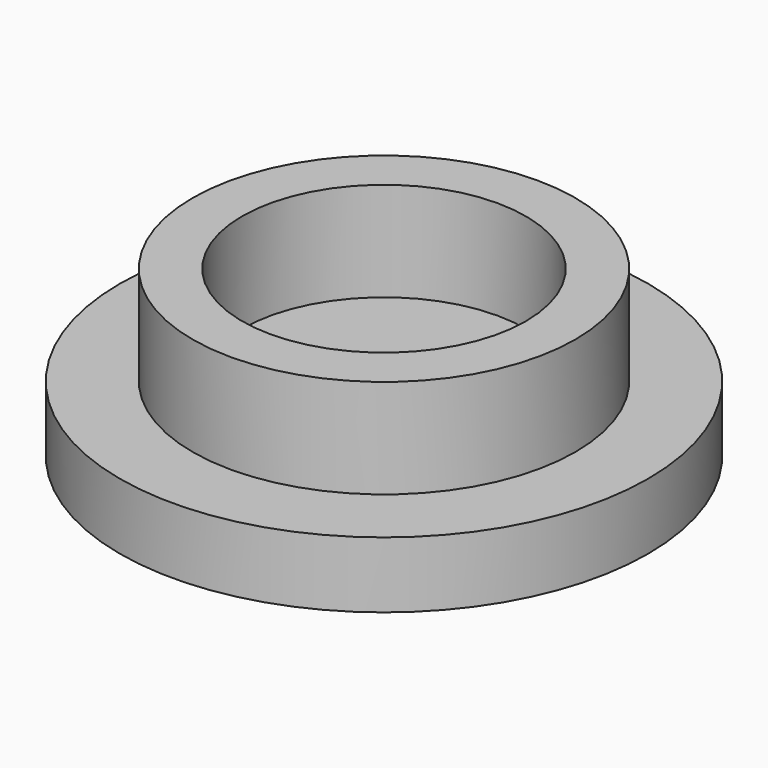
from build123d import *

# Parameters (mm, degrees)
F0_R     = 5.8
F0_R_2   = 4.3
F1_DEPTH = 3
F0_R_3   = 8
F2_DEPTH = 2


with BuildPart() as f1:
    # F0 (on Top) → F1 (new body)
    with BuildSketch(Plane.XY):
        Circle(F0_R)
        Circle(F0_R_2, mode=Mode.SUBTRACT)
    extrude(amount=F1_DEPTH)

    # F0 (on Top) → F2 (join)
    with BuildSketch(Plane.XY):
        Circle(F0_R_3)
        Circle(F0_R, mode=Mode.SUBTRACT)
        Circle(F0_R)
        Circle(F0_R_2, mode=Mode.SUBTRACT)
        Circle(F0_R_2)
    extrude(amount=-F2_DEPTH)


solid = f1.part
